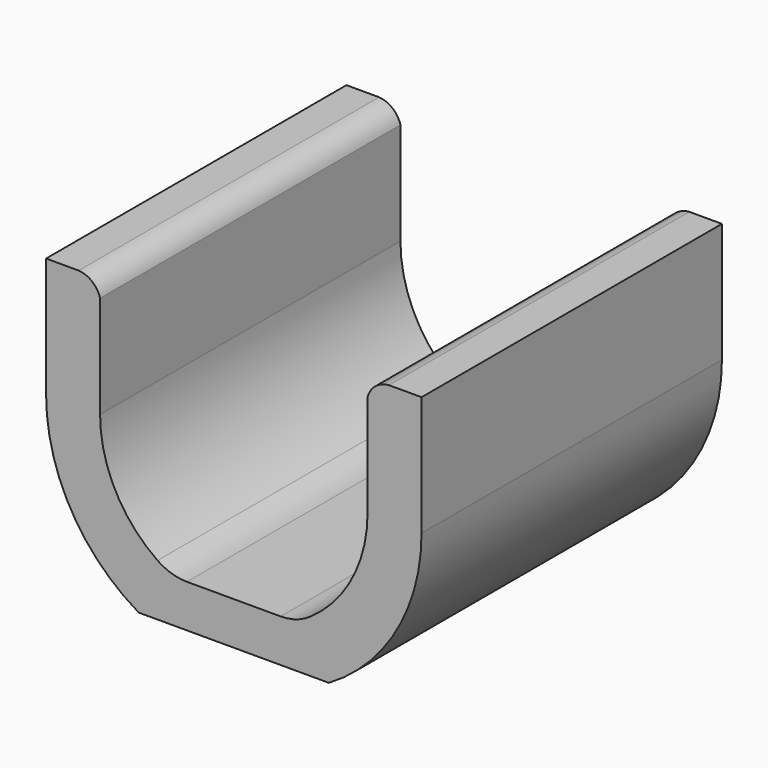
from build123d import *

# Parameters (mm, degrees)
F1_DEPTH = 101.6


with BuildPart() as f1:
    # F0 (on Front) → F1 (new body)
    with BuildSketch(Plane.XZ):
        with BuildLine():
            ThreePointArc((-20.63977, -29.72378), (-32.065525, -16.772159), (-36.187058, 0))
            Line((-36.187058, 0), (-36.187058, 27.704396))
            ThreePointArc((-36.187058, 27.704396), (-38.341088, 30.969492), (-41.983402, 32.395763))
            Line((-41.983402, 32.395763), (-50.8, 32.395763))
            Line((-50.8, 32.395763), (-50.8, 0))
            ThreePointArc((-50.8, 0), (-44.088108, -25.236456), (-25.726035, -43.804237))
            Line((-25.726035, -43.804237), (0, -43.804237))
            Line((0, -43.804237), (25.726035, -43.804237))
            ThreePointArc((25.726035, -43.804237), (44.088108, -25.236456), (50.8, 0))
            Line((50.8, 0), (50.8, 32.395763))
            Line((50.8, 32.395763), (41.983402, 32.395763))
            ThreePointArc((41.983402, 32.395763), (38.341088, 30.969492), (36.187058, 27.704396))
            Line((36.187058, 27.704396), (36.187058, 0))
            ThreePointArc((36.187058, 0), (32.065525, -16.772159), (20.63977, -29.72378))
            ThreePointArc((20.63977, -29.72378), (16.846551, -31.580554), (12.671795, -32.218926))
            Line((12.671795, -32.218926), (0, -32.218926))
            Line((0, -32.218926), (-12.671795, -32.218926))
            ThreePointArc((-12.671795, -32.218926), (-16.846551, -31.580554), (-20.63977, -29.72378))
        make_face()
    extrude(amount=F1_DEPTH)


solid = f1.part
